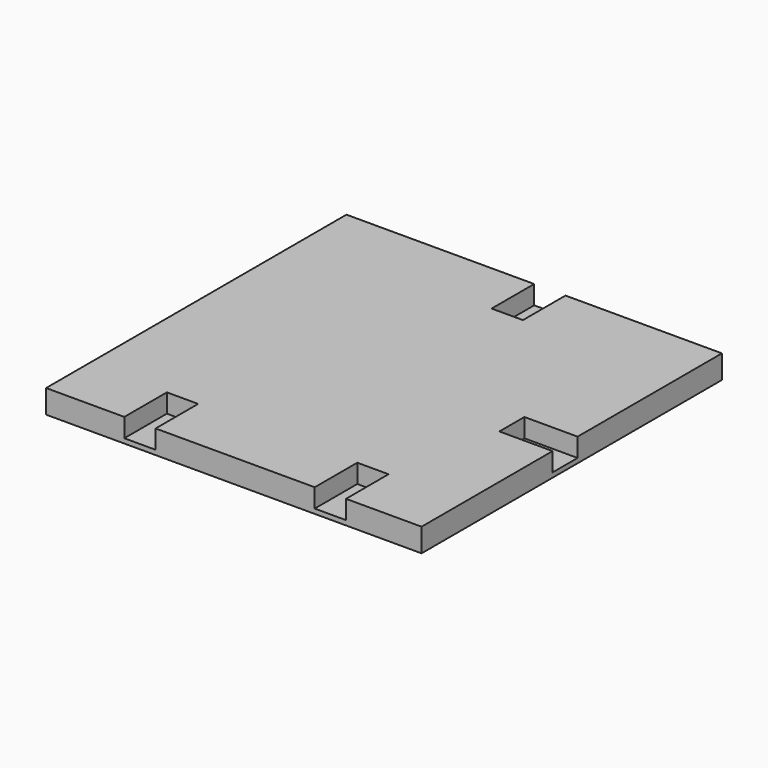
from build123d import *

# Parameters (mm, degrees)
F0_W     = 304.8
F0_H     = 304.8
F1_DEPTH = 19.05
F2_W     = 25.4
F2_H     = 15.24
F3_DEPTH = 43.18
F4_W     = 25.4
F4_H     = 15.24
F5_DEPTH = 43.18
F6_W     = 25.4
F6_H     = 15.24
F7_DEPTH = 43.18
F8_W     = 25.4
F8_H     = 15.24
F9_DEPTH = 43.18


with BuildPart() as f1:
    # F0 (on Top) → F1 (new body)
    with BuildSketch(Plane.XY):
        with Locations((-152.4, 152.4)):
            Rectangle(F0_W, F0_H)
    extrude(amount=F1_DEPTH)

    # F2 (on face) → F3 (cut)
    with BuildSketch(Plane.XZ):
        with Locations((-228.6, 11.43)):
            Rectangle(F2_W, F2_H)
    extrude(amount=-F3_DEPTH, mode=Mode.SUBTRACT)

    # F4 (on face) → F5 (cut)
    with BuildSketch(Plane.XZ):
        with Locations((-74.026464, 11.43)):
            Rectangle(F4_W, F4_H)
    extrude(amount=-F5_DEPTH, mode=Mode.SUBTRACT)

    # F6 (on face) → F7 (cut)
    with BuildSketch(Plane(origin=(0, 304.8, 0), x_dir=(-1, 0, 0), z_dir=(0, 1, 0))):
        with Locations((139.7, 11.43)):
            Rectangle(F6_W, F6_H)
    extrude(amount=-F7_DEPTH, mode=Mode.SUBTRACT)

    # F8 (on face) → F9 (cut)
    with BuildSketch(Plane.YZ):
        with Locations((145.6436, 11.43)):
            Rectangle(F8_W, F8_H)
    extrude(amount=-F9_DEPTH, mode=Mode.SUBTRACT)


solid = f1.part
